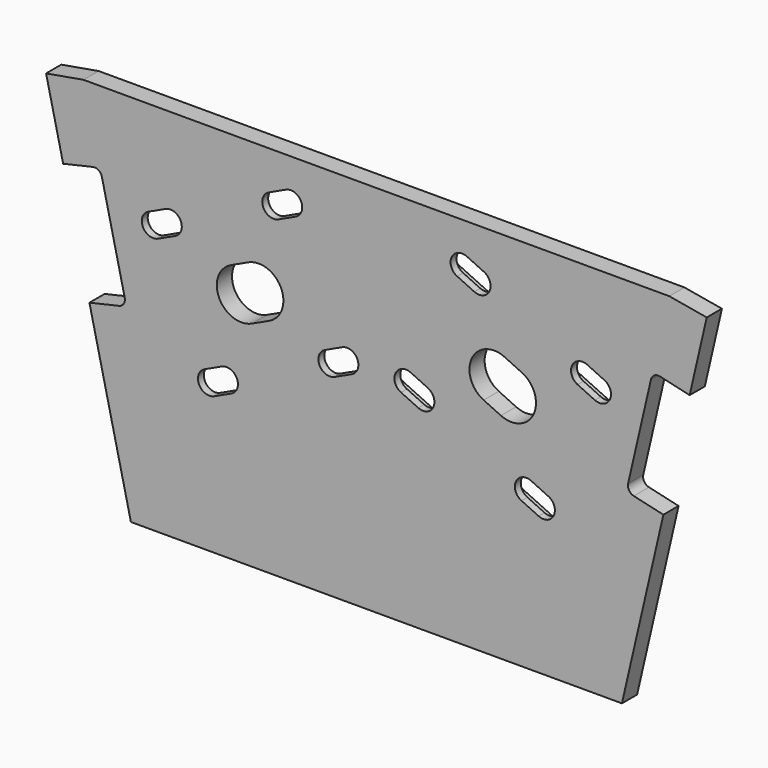
from build123d import *

# Parameters (mm, degrees)
F1_DEPTH = 10
F2_START = 6.1
F2_DEPTH = 3.9


with BuildPart() as f1:
    # F0 (on Front) → F1 (new body)
    with BuildSketch(Plane.XZ):
        with BuildLine():
            Line((-10.0713614853, 99.2132068528), (-89.767584656, 99.2132068528))
            Line((-89.767584656, 99.2132068528), (-204.1870618351, 99.2132068528))
            Line((-204.1870618351, 99.2132068528), (-223.9194730707, 95.7754404094))
            Line((-223.9194730707, 95.7754404094), (-214.9214308969, 56.800637818))
            Line((-214.9214308969, 56.800637818), (-199.3315098604, 60.3998546875))
            ThreePointArc((-199.3315098604, 60.3998546875), (-196.3120285861, 59.8945668129), (-194.5342253839, 57.4021786457))
            Line((-194.5342253839, 57.4021786457), (-182.4993439765, 5.2733801797))
            ThreePointArc((-182.4993439765, 5.2733801797), (-183.004631851, 2.2538989054), (-185.4970200182, 0.4760957032))
            Line((-185.4970200182, 0.4760957032), (-201.0869410548, -3.1231211663))
            Line((-201.0869410548, -3.1231211663), (-179.246252088, -97.7255385038))
            Line((-179.246252088, -97.7255385038), (-49.9194730707, -97.7255385038))
            Line((-49.9194730707, -97.7255385038), (79.4073059466, -97.7255385038))
            Line((79.4073059466, -97.7255385038), (101.2479949134, -3.1231211663))
            Line((101.2479949134, -3.1231211663), (85.6580738768, 0.4760957032))
            ThreePointArc((85.6580738768, 0.4760957032), (83.1656857096, 2.2538989054), (82.6603978351, 5.2733801797))
            Line((82.6603978351, 5.2733801797), (94.6952792425, 57.4021786457))
            ThreePointArc((94.6952792425, 57.4021786457), (96.4730824447, 59.8945668129), (99.492563719, 60.3998546875))
            Line((99.492563719, 60.3998546875), (115.0824847556, 56.800637818))
            Line((115.0824847556, 56.800637818), (124.0805269293, 95.7754404094))
            Line((124.0805269293, 95.7754404094), (104.3481156937, 99.2132068528))
            Line((104.3481156937, 99.2132068528), (-10.0713614853, 99.2132068528))
        make_face()
        with BuildLine():
            Line((-146.7194564495, -12.6849211634), (-142.1879175143, -10.5718298547))
            Line((-142.1879175143, -10.5718298547), (-69.6832945513, 23.2376310846))
            Line((-69.6832945513, 23.2376310846), (-65.1517556162, 25.3507223933))
            ThreePointArc((-65.1517556162, 25.3507223933), (-51.7296025235, 20.4654581878), (-56.614866729, 7.0433050951))
            Line((-56.614866729, 7.0433050951), (-61.1464056642, 4.9302137864))
            Line((-61.1464056642, 4.9302137864), (-133.6510286271, -28.8792471528))
            Line((-133.6510286271, -28.8792471528), (-138.1825675623, -30.9923384615))
            ThreePointArc((-138.1825675623, -30.9923384615), (-151.6047206549, -26.107074256), (-146.7194564495, -12.6849211634))
        make_face(mode=Mode.SUBTRACT)
        with BuildLine():
            Line((38.3436214209, -30.9923384615), (33.8120824857, -28.8792471528))
            Line((33.8120824857, -28.8792471528), (-38.6925404772, 4.9302137864))
            Line((-38.6925404772, 4.9302137864), (-43.2240794124, 7.0433050951))
            ThreePointArc((-43.2240794124, 7.0433050951), (-48.1093436179, 20.4654581878), (-34.6871905252, 25.3507223933))
            Line((-34.6871905252, 25.3507223933), (-30.15565159, 23.2376310846))
            Line((-30.15565159, 23.2376310846), (42.3489713729, -10.5718298547))
            Line((42.3489713729, -10.5718298547), (46.8805103081, -12.6849211634))
            ThreePointArc((46.8805103081, -12.6849211634), (51.7657745136, -26.107074256), (38.3436214209, -30.9923384615))
        make_face(mode=Mode.SUBTRACT)
        with BuildLine():
            ThreePointArc((-115.4963022827, 15.004871972), (-132.7723409168, 21.2928358008), (-126.484377088, 38.5688744349))
            Line((-126.484377088, 38.5688744349), (-117.4212992176, 42.7950570523))
            ThreePointArc((-117.4212992176, 42.7950570523), (-100.1452605835, 36.5070932235), (-106.4332244123, 19.2310545894))
            Line((-106.4332244123, 19.2310545894), (-115.4963022827, 15.004871972))
        make_face(mode=Mode.SUBTRACT)
        with BuildLine():
            Line((-90.729683986, 68.371758879), (-163.234306949, 34.5622979397))
            Line((-163.234306949, 34.5622979397), (-167.7658458841, 32.449206631))
            ThreePointArc((-167.7658458841, 32.449206631), (-181.1879989768, 37.3344708365), (-176.3027347713, 50.7566239292))
            Line((-176.3027347713, 50.7566239292), (-171.7711958361, 52.8697152379))
            Line((-171.7711958361, 52.8697152379), (-99.2665728732, 86.6791761771))
            Line((-99.2665728732, 86.6791761771), (-94.735033938, 88.7922674858))
            ThreePointArc((-94.735033938, 88.7922674858), (-81.3128808454, 83.9070032804), (-86.1981450508, 70.4848501877))
            Line((-86.1981450508, 70.4848501877), (-90.729683986, 68.371758879))
        make_face(mode=Mode.SUBTRACT)
        with BuildLine():
            ThreePointArc((26.6454309466, 38.5688744349), (32.9333947754, 21.2928358008), (15.6573561413, 15.004871972))
            Line((15.6573561413, 15.004871972), (6.594278271, 19.2310545894))
            ThreePointArc((6.594278271, 19.2310545894), (0.3063144421, 36.5070932235), (17.5823530762, 42.7950570523))
            Line((17.5823530762, 42.7950570523), (26.6454309466, 38.5688744349))
        make_face(mode=Mode.SUBTRACT)
        with BuildLine():
            Line((-0.5723732682, 86.6791761771), (71.9322496947, 52.8697152379))
            Line((71.9322496947, 52.8697152379), (76.4637886299, 50.7566239292))
            ThreePointArc((76.4637886299, 50.7566239292), (81.3490528354, 37.3344708365), (67.9268997428, 32.449206631))
            Line((67.9268997428, 32.449206631), (63.3953608076, 34.5622979397))
            Line((63.3953608076, 34.5622979397), (-9.1092621554, 68.371758879))
            Line((-9.1092621554, 68.371758879), (-13.6408010905, 70.4848501877))
            ThreePointArc((-13.6408010905, 70.4848501877), (-18.526065296, 83.9070032804), (-5.1039122034, 88.7922674858))
            Line((-5.1039122034, 88.7922674858), (-0.5723732682, 86.6791761771))
        make_face(mode=Mode.SUBTRACT)
    extrude(amount=F1_DEPTH)

    # F0 (on Front) → F2 (join)
    with BuildSketch(Plane.XZ.offset(F2_START)):
        with BuildLine():
            Line((-167.7658458841, 32.449206631), (-163.234306949, 34.5622979397))
            Line((-163.234306949, 34.5622979397), (-90.729683986, 68.371758879))
            Line((-90.729683986, 68.371758879), (-86.1981450508, 70.4848501877))
            ThreePointArc((-86.1981450508, 70.4848501877), (-81.3128808454, 83.9070032804), (-94.735033938, 88.7922674858))
            Line((-94.735033938, 88.7922674858), (-99.2665728732, 86.6791761771))
            Line((-99.2665728732, 86.6791761771), (-171.7711958361, 52.8697152379))
            Line((-171.7711958361, 52.8697152379), (-176.3027347713, 50.7566239292))
            ThreePointArc((-176.3027347713, 50.7566239292), (-181.1879989768, 37.3344708365), (-167.7658458841, 32.449206631))
        make_face()
        with BuildLine():
            Line((-155.9039639517, 42.504342484), (-164.9670418221, 38.2781598666))
            ThreePointArc((-164.9670418221, 38.2781598666), (-172.9405981148, 41.1802970184), (-170.038460963, 49.153853311))
            Line((-170.038460963, 49.153853311), (-160.9753830926, 53.3800359284))
            ThreePointArc((-160.9753830926, 53.3800359284), (-153.0018268, 50.4778987767), (-155.9039639517, 42.504342484))
        make_face(mode=Mode.SUBTRACT)
        with BuildLine():
            ThreePointArc((-97.533838, 82.9633142503), (-89.5602817074, 80.0611770985), (-92.4624188592, 72.0876208058))
            Line((-92.4624188592, 72.0876208058), (-101.5254967295, 67.8614381884))
            ThreePointArc((-101.5254967295, 67.8614381884), (-109.4990530222, 70.7635753402), (-106.5969158704, 78.7371316329))
            Line((-106.5969158704, 78.7371316329), (-97.533838, 82.9633142503))
        make_face(mode=Mode.SUBTRACT)
        with BuildLine():
            Line((76.4637886299, 50.7566239292), (71.9322496947, 52.8697152379))
            Line((71.9322496947, 52.8697152379), (-0.5723732682, 86.6791761771))
            Line((-0.5723732682, 86.6791761771), (-5.1039122034, 88.7922674858))
            ThreePointArc((-5.1039122034, 88.7922674858), (-18.526065296, 83.9070032804), (-13.6408010905, 70.4848501877))
            Line((-13.6408010905, 70.4848501877), (-9.1092621554, 68.371758879))
            Line((-9.1092621554, 68.371758879), (63.3953608076, 34.5622979397))
            Line((63.3953608076, 34.5622979397), (67.9268997428, 32.449206631))
            ThreePointArc((67.9268997428, 32.449206631), (81.3490528354, 37.3344708365), (76.4637886299, 50.7566239292))
        make_face()
        with BuildLine():
            ThreePointArc((70.1995148216, 49.153853311), (73.1016519734, 41.1802970184), (65.1280956807, 38.2781598666))
            Line((65.1280956807, 38.2781598666), (56.0650178103, 42.504342484))
            ThreePointArc((56.0650178103, 42.504342484), (53.1628806586, 50.4778987767), (61.1364369512, 53.3800359284))
            Line((61.1364369512, 53.3800359284), (70.1995148216, 49.153853311))
        make_face(mode=Mode.SUBTRACT)
        with BuildLine():
            ThreePointArc((-7.3765272822, 72.0876208058), (-10.278664434, 80.0611770985), (-2.3051081413, 82.9633142503))
            Line((-2.3051081413, 82.9633142503), (6.757969729, 78.7371316329))
            ThreePointArc((6.757969729, 78.7371316329), (9.6601068808, 70.7635753402), (1.6865505881, 67.8614381884))
            Line((1.6865505881, 67.8614381884), (-7.3765272822, 72.0876208058))
        make_face(mode=Mode.SUBTRACT)
        with BuildLine():
            Line((-69.6832945513, 23.2376310846), (-142.1879175143, -10.5718298547))
            Line((-142.1879175143, -10.5718298547), (-146.7194564495, -12.6849211634))
            ThreePointArc((-146.7194564495, -12.6849211634), (-151.6047206549, -26.107074256), (-138.1825675623, -30.9923384615))
            Line((-138.1825675623, -30.9923384615), (-133.6510286271, -28.8792471528))
            Line((-133.6510286271, -28.8792471528), (-61.1464056642, 4.9302137864))
            Line((-61.1464056642, 4.9302137864), (-56.614866729, 7.0433050951))
            ThreePointArc((-56.614866729, 7.0433050951), (-51.7296025235, 20.4654581878), (-65.1517556162, 25.3507223933))
            Line((-65.1517556162, 25.3507223933), (-69.6832945513, 23.2376310846))
        make_face()
        with BuildLine():
            ThreePointArc((-135.3837635002, -25.163385226), (-143.3573197929, -22.2612480742), (-140.4551826411, -14.2876917815))
            Line((-140.4551826411, -14.2876917815), (-131.3921047708, -10.0615091641))
            ThreePointArc((-131.3921047708, -10.0615091641), (-123.4185484781, -12.9636463159), (-126.3206856299, -20.9372026086))
            Line((-126.3206856299, -20.9372026086), (-135.3837635002, -25.163385226))
        make_face(mode=Mode.SUBTRACT)
        with BuildLine():
            Line((-62.8791405373, 8.6460757133), (-71.9422184077, 4.4198930959))
            ThreePointArc((-71.9422184077, 4.4198930959), (-79.9157747003, 7.3220302477), (-77.0136375486, 15.2955865403))
            Line((-77.0136375486, 15.2955865403), (-67.9505596782, 19.5217691577))
            ThreePointArc((-67.9505596782, 19.5217691577), (-59.9770033855, 16.6196320059), (-62.8791405373, 8.6460757133))
        make_face(mode=Mode.SUBTRACT)
        with BuildLine():
            Line((-38.6925404772, 4.9302137864), (33.8120824857, -28.8792471528))
            Line((33.8120824857, -28.8792471528), (38.3436214209, -30.9923384615))
            ThreePointArc((38.3436214209, -30.9923384615), (51.7657745136, -26.107074256), (46.8805103081, -12.6849211634))
            Line((46.8805103081, -12.6849211634), (42.3489713729, -10.5718298547))
            Line((42.3489713729, -10.5718298547), (-30.15565159, 23.2376310846))
            Line((-30.15565159, 23.2376310846), (-34.6871905252, 25.3507223933))
            ThreePointArc((-34.6871905252, 25.3507223933), (-48.1093436179, 20.4654581878), (-43.2240794124, 7.0433050951))
            Line((-43.2240794124, 7.0433050951), (-38.6925404772, 4.9302137864))
        make_face()
        with BuildLine():
            ThreePointArc((40.6162364998, -14.2876917815), (43.5183736515, -22.2612480742), (35.5448173589, -25.163385226))
            Line((35.5448173589, -25.163385226), (26.4817394885, -20.9372026086))
            ThreePointArc((26.4817394885, -20.9372026086), (23.5796023367, -12.9636463159), (31.5531586294, -10.0615091641))
            Line((31.5531586294, -10.0615091641), (40.6162364998, -14.2876917815))
        make_face(mode=Mode.SUBTRACT)
        with BuildLine():
            ThreePointArc((-36.9598056041, 8.6460757133), (-39.8619427558, 16.6196320059), (-31.8883864632, 19.5217691577))
            Line((-31.8883864632, 19.5217691577), (-22.8253085928, 15.2955865403))
            ThreePointArc((-22.8253085928, 15.2955865403), (-19.923171441, 7.3220302477), (-27.8967277337, 4.4198930959))
            Line((-27.8967277337, 4.4198930959), (-36.9598056041, 8.6460757133))
        make_face(mode=Mode.SUBTRACT)
    extrude(amount=F2_DEPTH)


solid = f1.part
